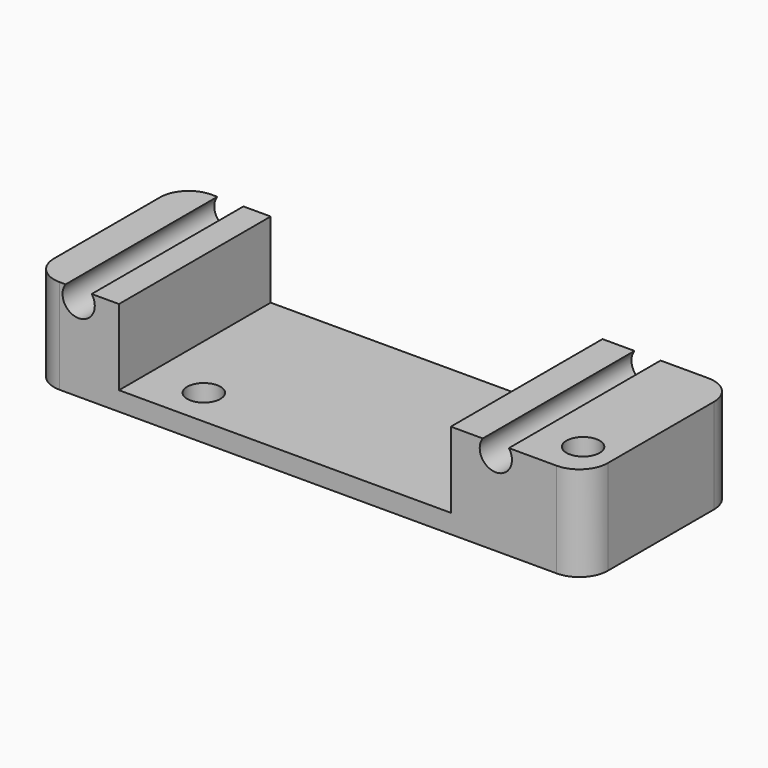
from build123d import *

# Parameters (mm, degrees)
F0_W     = 100
F0_H     = 20
F1_DEPTH = 20
F3_DEPTH = 25
F4_W     = 58.4087243304
F4_H     = 10
F4_W_2   = 35
F4_H_2   = 8
F5_DEPTH = 25
F6_R     = 1.75
F7_DEPTH = 25
F8_R     = 3


with BuildPart() as f1:
    # F0 (on Top) → F1 (new body)
    with BuildSketch(Plane.XY):
        Rectangle(F0_W, F0_H)
    extrude(amount=F1_DEPTH)

    # F2 (on face) → F3 (cut)
    with BuildSketch(Plane.XZ.offset(10)):
        with BuildLine():
            ThreePointArc((-46.3747727085, 20), (-45.5257786585, 17.38335013), (-43.3, 19))
            ThreePointArc((-43.3, 19), (-43.38335013, 19.5257786585), (-43.6252272915, 20))
            Line((-43.6252272915, 20), (-46.3747727085, 20))
        make_face()
        with BuildLine():
            Line((0.3747727085, 20), (-2.3747727085, 20))
            ThreePointArc((-2.3747727085, 20), (-1.5257786585, 17.38335013), (0.7, 19))
            ThreePointArc((0.7, 19), (0.61664987, 19.5257786585), (0.3747727085, 20))
        make_face()
    extrude(amount=-F3_DEPTH, mode=Mode.SUBTRACT)

    # F4 (on face) → F5 (cut)
    with BuildSketch(Plane.XZ.offset(10)):
        Polygon((50, 20), (8.4087243304, 20), (8.4087243304, 10), (8.4087243304, 0), (50, 0), align=None)
        with Locations((-20.7956378348, 5)):
            Rectangle(F4_W, F4_H)
        with Locations((-23.2489995997, 16)):
            Rectangle(F4_W_2, F4_H_2)
    extrude(amount=-F5_DEPTH, mode=Mode.SUBTRACT)

    # F6 (on face) → F7 (cut)
    with BuildSketch(Plane(origin=(0, 0, 10), x_dir=(1, 0, 0), z_dir=(0, 0, -1))):
        with Locations((-35, 6)):
            Circle(F6_R)
        with Locations((5, 6)):
            Circle(F6_R)
    extrude(amount=-F7_DEPTH, mode=Mode.SUBTRACT)

    # F8
    f8_edges = [f1.edges().sort_by_distance(p)[0] for p in [
        (-50, -10, 15),
        (-50, 10, 15),
        (8.408724, 10, 15),
        (8.408724, -10, 15),
    ]]
    fillet(f8_edges, radius=F8_R)


solid = f1.part
